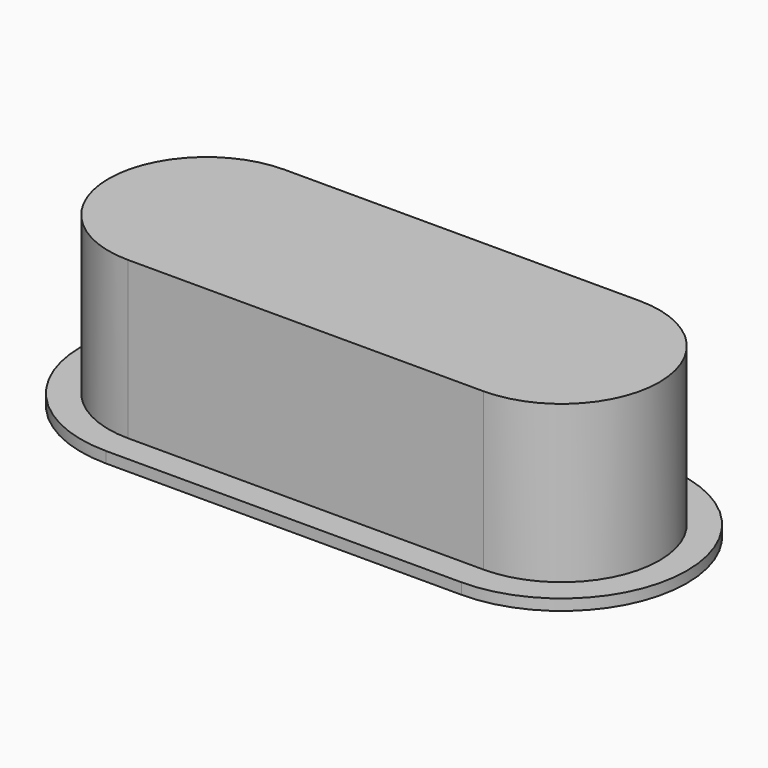
from build123d import *

# Parameters (mm, degrees)
F1_DEPTH = 2.85
F3_DEPTH = 0.2


with BuildPart() as f1:
    # F0 (on Top) → F1 (new body)
    with BuildSketch(Plane.XY):
        with BuildLine():
            Line((-3.225, -1.775), (3.225, -1.775))
            ThreePointArc((3.225, -1.775), (5, 0), (3.225, 1.775))
            Line((3.225, 1.775), (-3.225, 1.775))
            ThreePointArc((-3.225, 1.775), (-5, 0), (-3.225, -1.775))
        make_face()
    extrude(amount=F1_DEPTH)

    # F2 (on face) → F3 (join)
    with BuildSketch(Plane(origin=(0, 0, 0), x_dir=(1, 0, 0), z_dir=(0, 0, -1))):
        with BuildLine():
            Line((-3.225, -2.275), (3.225, -2.275))
            ThreePointArc((3.225, -2.275), (5.5, 0), (3.225, 2.275))
            Line((3.225, 2.275), (-3.225, 2.275))
            ThreePointArc((-3.225, 2.275), (-5.5, 0), (-3.225, -2.275))
        make_face()
    extrude(amount=F3_DEPTH)


solid = f1.part
